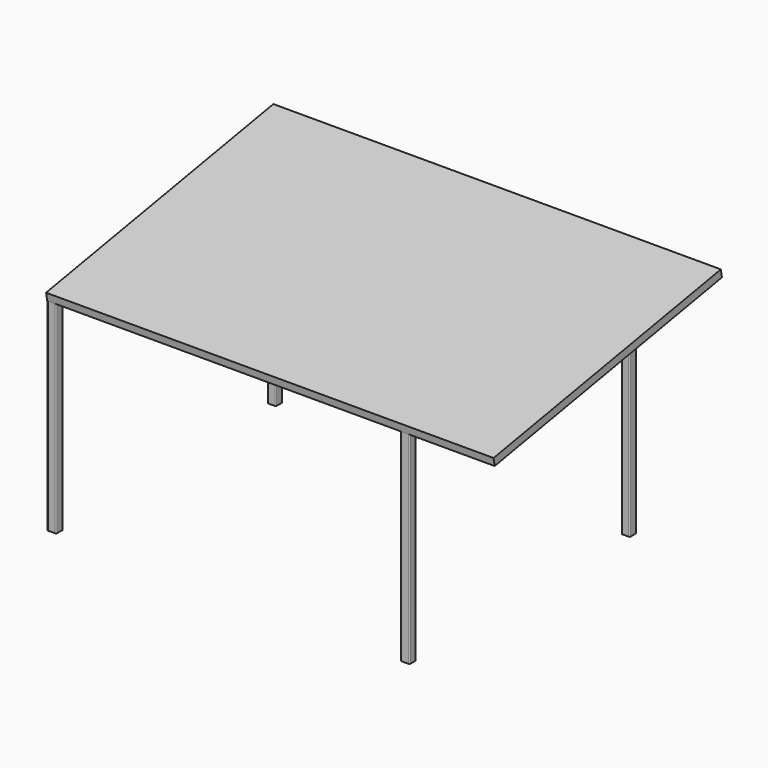
from build123d import *

# Parameters (mm, degrees)
F11_W     = 5750
F11_H     = 3707.424982
F12_DEPTH = 100
F13_DEPTH = 2650
F14_DEPTH = 3250


with BuildPart() as f12:
    # F11 (on face) → F12 (new body)
    with BuildSketch(Plane(origin=(0, -448.781375, 2520.080029), x_dir=(1, 0, 0), z_dir=(0, 0.175324, -0.984511))):
        with Locations((2875, -2309.554486)):
            Rectangle(F11_W, F11_H)
    extrude(amount=-F12_DEPTH)


with BuildPart() as f13:
    # F3 (on Top) → F13 (new body)
    with BuildSketch(Plane.XY):
        with BuildLine():
            Line((10, 4.003398), (100.018654, 4.003398))
            ThreePointArc((100.018654, 4.003398), (109.918148, 8.103903), (114.018654, 18.003398))
            Line((114.018654, 18.003398), (114.018654, 98.003398))
            ThreePointArc((114.018654, 98.003398), (109.918148, 107.902893), (100.018654, 112.003398))
            Line((100.018654, 112.003398), (10, 112.003398))
            ThreePointArc((10, 112.003398), (0.100505, 107.902893), (-4, 98.003398))
            Line((-4, 98.003398), (-4, 18.003398))
            ThreePointArc((-4, 18.003398), (0.100505, 8.103903), (10, 4.003398))
        make_face()
        with BuildLine():
            Line((100.018654, 8.003398), (10, 8.003398))
            ThreePointArc((10, 8.003398), (2.928932, 10.93233), (0, 18.003398))
            Line((0, 18.003398), (0, 98.003398))
            ThreePointArc((0, 98.003398), (2.928932, 105.074466), (10, 108.003398))
            Line((10, 108.003398), (100.018654, 108.003398))
            ThreePointArc((100.018654, 108.003398), (107.089721, 105.074466), (110.018654, 98.003398))
            Line((110.018654, 98.003398), (110.018654, 18.003398))
            ThreePointArc((110.018654, 18.003398), (107.089721, 10.93233), (100.018654, 8.003398))
        make_face(mode=Mode.SUBTRACT)
        with BuildLine():
            Line((4548.995011, 4.003398), (4639.013664, 4.003398))
            ThreePointArc((4639.013664, 4.003398), (4648.913159, 8.103903), (4653.013664, 18.003398))
            Line((4653.013664, 18.003398), (4653.013664, 98.003398))
            ThreePointArc((4653.013664, 98.003398), (4648.913159, 107.902893), (4639.013664, 112.003398))
            Line((4639.013664, 112.003398), (4548.995011, 112.003398))
            ThreePointArc((4548.995011, 112.003398), (4539.095516, 107.902893), (4534.995011, 98.003398))
            Line((4534.995011, 98.003398), (4534.995011, 18.003398))
            ThreePointArc((4534.995011, 18.003398), (4539.095516, 8.103903), (4548.995011, 4.003398))
        make_face()
        with BuildLine():
            Line((4639.013664, 8.003398), (4548.995011, 8.003398))
            ThreePointArc((4548.995011, 8.003398), (4541.923943, 10.93233), (4538.995011, 18.003398))
            Line((4538.995011, 18.003398), (4538.995011, 98.003398))
            ThreePointArc((4538.995011, 98.003398), (4541.923943, 105.074466), (4548.995011, 108.003398))
            Line((4548.995011, 108.003398), (4639.013664, 108.003398))
            ThreePointArc((4639.013664, 108.003398), (4646.084732, 105.074466), (4649.013664, 98.003398))
            Line((4649.013664, 98.003398), (4649.013664, 18.003398))
            ThreePointArc((4649.013664, 18.003398), (4646.084732, 10.93233), (4639.013664, 8.003398))
        make_face(mode=Mode.SUBTRACT)
    extrude(amount=F13_DEPTH)


with BuildPart() as f14:
    # F3 (on Top) → F14 (new body)
    with BuildSketch(Plane.XY):
        with BuildLine():
            Line((10, 3541.85886), (91, 3541.85886))
            ThreePointArc((91, 3541.85886), (100.899495, 3545.959365), (105, 3555.85886))
            Line((105, 3555.85886), (105, 3635.85886))
            ThreePointArc((105, 3635.85886), (100.899495, 3645.758355), (91, 3649.85886))
            Line((91, 3649.85886), (10, 3649.85886))
            ThreePointArc((10, 3649.85886), (0.100505, 3645.758355), (-4, 3635.85886))
            Line((-4, 3635.85886), (-4, 3555.85886))
            ThreePointArc((-4, 3555.85886), (0.100505, 3545.959365), (10, 3541.85886))
        make_face()
        with BuildLine():
            Line((91, 3545.85886), (10, 3545.85886))
            ThreePointArc((10, 3545.85886), (2.928932, 3548.787792), (0, 3555.85886))
            Line((0, 3555.85886), (0, 3635.85886))
            ThreePointArc((0, 3635.85886), (2.928932, 3642.929928), (10, 3645.85886))
            Line((10, 3645.85886), (91, 3645.85886))
            ThreePointArc((91, 3645.85886), (98.071068, 3642.929928), (101, 3635.85886))
            Line((101, 3635.85886), (101, 3555.85886))
            ThreePointArc((101, 3555.85886), (98.071068, 3548.787792), (91, 3545.85886))
        make_face(mode=Mode.SUBTRACT)
        with BuildLine():
            Line((4558.013664, 3541.85886), (4639.013664, 3541.85886))
            ThreePointArc((4639.013664, 3541.85886), (4648.913159, 3545.959365), (4653.013664, 3555.85886))
            Line((4653.013664, 3555.85886), (4653.013664, 3635.85886))
            ThreePointArc((4653.013664, 3635.85886), (4648.913159, 3645.758355), (4639.013664, 3649.85886))
            Line((4639.013664, 3649.85886), (4558.013664, 3649.85886))
            ThreePointArc((4558.013664, 3649.85886), (4548.114169, 3645.758355), (4544.013664, 3635.85886))
            Line((4544.013664, 3635.85886), (4544.013664, 3555.85886))
            ThreePointArc((4544.013664, 3555.85886), (4548.114169, 3545.959365), (4558.013664, 3541.85886))
        make_face()
        with BuildLine():
            Line((4639.013664, 3545.85886), (4558.013664, 3545.85886))
            ThreePointArc((4558.013664, 3545.85886), (4550.942596, 3548.787792), (4548.013664, 3555.85886))
            Line((4548.013664, 3555.85886), (4548.013664, 3635.85886))
            ThreePointArc((4548.013664, 3635.85886), (4550.942596, 3642.929928), (4558.013664, 3645.85886))
            Line((4558.013664, 3645.85886), (4639.013664, 3645.85886))
            ThreePointArc((4639.013664, 3645.85886), (4646.084732, 3642.929928), (4649.013664, 3635.85886))
            Line((4649.013664, 3635.85886), (4649.013664, 3555.85886))
            ThreePointArc((4649.013664, 3555.85886), (4646.084732, 3548.787792), (4639.013664, 3545.85886))
        make_face(mode=Mode.SUBTRACT)
    extrude(amount=F14_DEPTH)


solid = Compound([f12.part, f13.part, f14.part])
